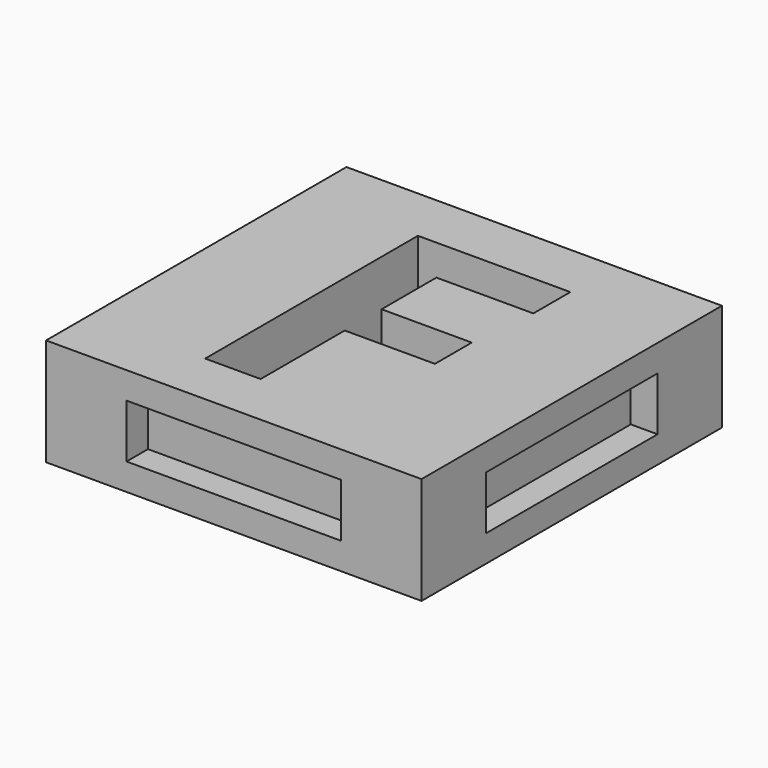
from build123d import *

# Parameters (mm, degrees)
F0_W     = 35.56
F0_H     = 35.56
F1_DEPTH = 5.08
F2_W     = 19.812
F2_H     = 4.572
F3_DEPTH = 2.54
F4_W     = 19.812
F4_H     = 4.572
F5_DEPTH = 2.54
F6_W     = 20.32
F6_H     = 5.08
F7_DEPTH = 2.54
F8_W     = 20.32
F8_H     = 5.08
F9_DEPTH = 2.54


with BuildPart() as f1:
    # F0 (on Top) → F1 (new body, symmetric)
    with BuildSketch(Plane.XY):
        Rectangle(F0_W, F0_H)
        Polygon((-1.5241102431, -2.7450520833), (-1.5241102431, -12.7), (-6.7771918403, -12.7), (-6.7771918403, 12.4850260417), (7.6591362847, 12.4850260417), (7.6591362847, 8.1083767361), (-1.5241102431, 8.1083767361), (-1.5241102431, 1.6150607639), (7.0197265625, 1.6150607639), (7.0197265625, -2.7450520833), align=None, mode=Mode.SUBTRACT)
    extrude(amount=F1_DEPTH, both=True)

    # F2 (on face) → F3 (join)
    with BuildSketch(Plane(origin=(0, 17.78, 0), x_dir=(-1, 0, 0), z_dir=(0, 1, 0))):
        Rectangle(F2_W, F2_H)
    extrude(amount=F3_DEPTH)

    # F4 (on face) → F5 (join)
    with BuildSketch(Plane(origin=(-17.78, 0, 0), x_dir=(0, -1, 0), z_dir=(-1, 0, 0))):
        Rectangle(F4_W, F4_H)
    extrude(amount=F5_DEPTH)

    # F6 (on face) → F7 (cut)
    with BuildSketch(Plane.XZ.offset(17.78)):
        Rectangle(F6_W, F6_H)
    extrude(amount=-F7_DEPTH, mode=Mode.SUBTRACT)

    # F8 (on face) → F9 (cut)
    with BuildSketch(Plane.YZ.offset(17.78)):
        Rectangle(F8_W, F8_H)
    extrude(amount=-F9_DEPTH, mode=Mode.SUBTRACT)


solid = f1.part
